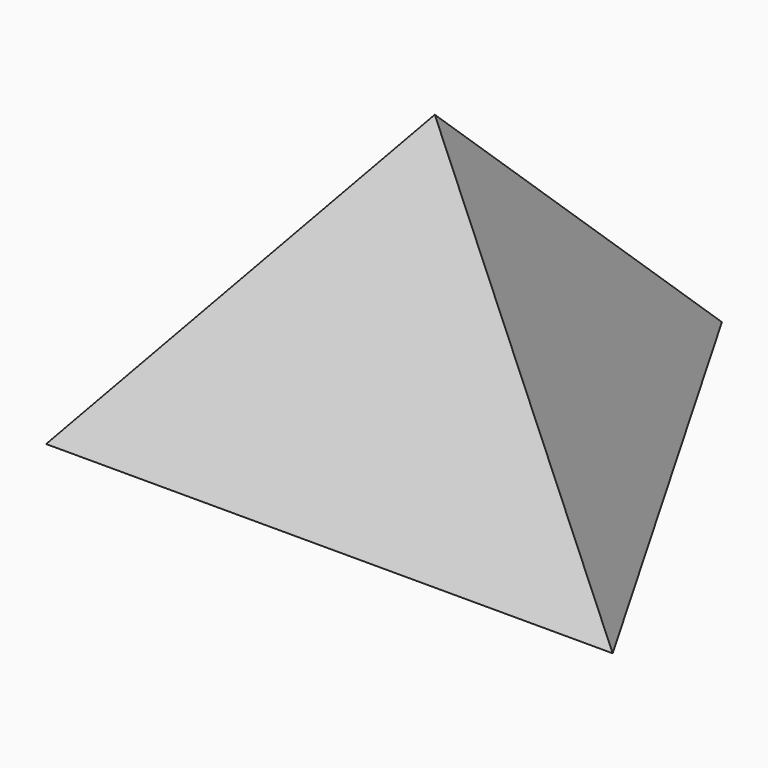
from build123d import *


with BuildPart() as f3:
    # F0 (on Top) → F3 section 0
    with BuildSketch(Plane.XY, mode=Mode.PRIVATE) as f3_s0:
        Polygon((92.184168, -53.222554), (0, 106.445108), (-92.184168, -53.222554), align=None)
    loft([f3_s0.sketch, Vertex(-8.278194, 0, 100)])


solid = f3.part
